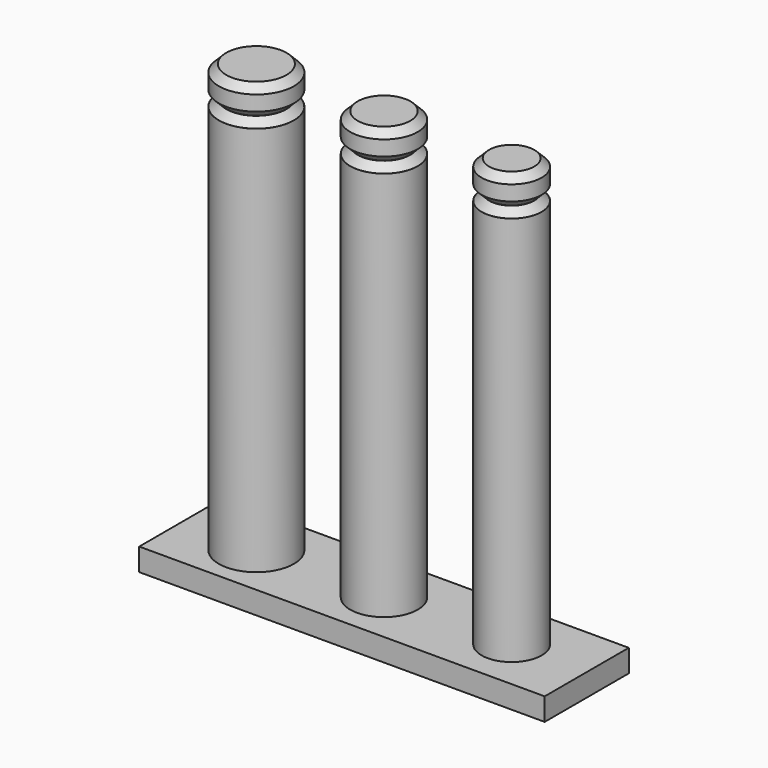
from build123d import *

# Parameters (mm, degrees)
SKETCH_W      = 54
SKETCH_H      = 14
PAD_DEPTH     = 3
SKETCH001_R   = 4.5
SKETCH001_R_2 = 4
SKETCH001_R_3 = 5
PAD001_DEPTH  = 52
SKETCH002_R   = 4
SKETCH002_R_2 = 3.5
SKETCH002_R_3 = 3
PAD002_DEPTH  = 2
SKETCH003_R   = 5
SKETCH003_R_2 = 4.5
SKETCH003_R_3 = 4
PAD003_DEPTH  = 3
CHAMFER_SIZE  = 0.99


with BuildPart() as part:
    # Sketch → Pad (new body)
    with BuildSketch(Plane.XY):
        Rectangle(SKETCH_W, SKETCH_H)
    extrude(amount=PAD_DEPTH)

    # Sketch001 (on Face6 of Pad) → Pad001 (join)
    with BuildSketch(Plane.XY.offset(3)):
        Circle(SKETCH001_R)
        with Locations((17, 0)):
            Circle(SKETCH001_R_2)
        with Locations((-17, 0)):
            Circle(SKETCH001_R_3)
    extrude(amount=PAD001_DEPTH)

    # Sketch002 (on Face10 of Pad001) → Pad002 (join)
    with BuildSketch(Plane.XY.offset(55)):
        with Locations((-17, 0)):
            Circle(SKETCH002_R)
        Circle(SKETCH002_R_2)
        with Locations((17, 0)):
            Circle(SKETCH002_R_3)
    extrude(amount=PAD002_DEPTH)

    # Sketch003 (on Face16 of Pad002) → Pad003 (join)
    with BuildSketch(Plane.XY.offset(57)):
        with Locations((-17, 0)):
            Circle(SKETCH003_R)
        Circle(SKETCH003_R_2)
        with Locations((17, 0)):
            Circle(SKETCH003_R_3)
    extrude(amount=PAD003_DEPTH)

    # Chamfer
    chamfer_edges = [part.edges().sort_by_distance(p)[0] for p in [
        (-4.5, 0, 60),
        (13, 0, 60),
        (-22, 0, 60),
        (-21, 0, 57),
        (-3.5, 0, 57),
        (14, 0, 57),
        (-21, 0, 55),
        (-3.5, 0, 55),
        (14, 0, 55),
    ]]
    chamfer(chamfer_edges, length=CHAMFER_SIZE)


solid = part.part
